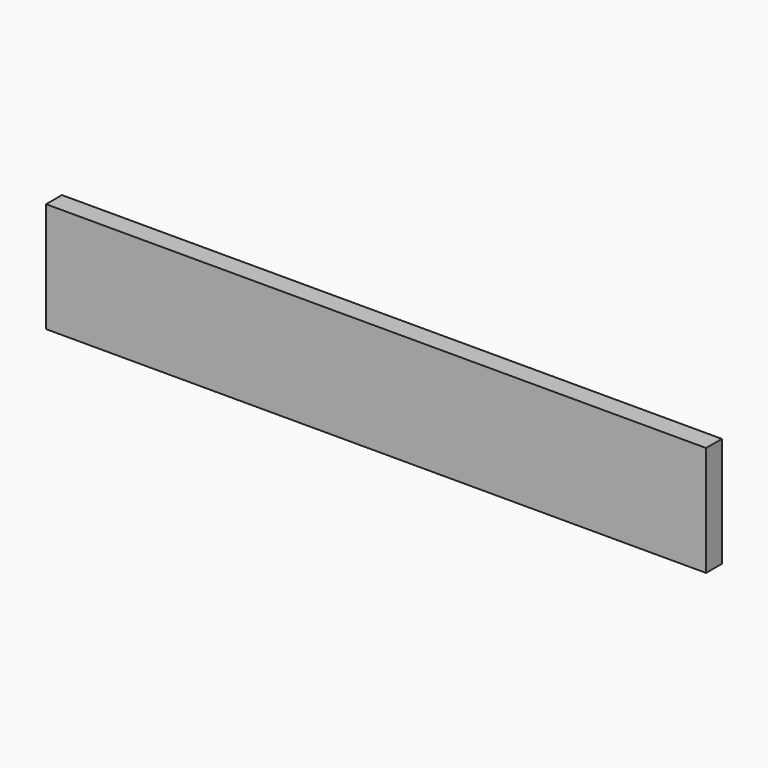
from build123d import *

# Parameters (mm, degrees)
SKETCH_W  = 600
SKETCH_H  = 100
PAD_DEPTH = 18


with BuildPart() as part:
    # Sketch → Pad (new body)
    with BuildSketch(Plane.XZ):
        with Locations((-300, 50)):
            Rectangle(SKETCH_W, SKETCH_H)
    extrude(amount=PAD_DEPTH)


solid = part.part
